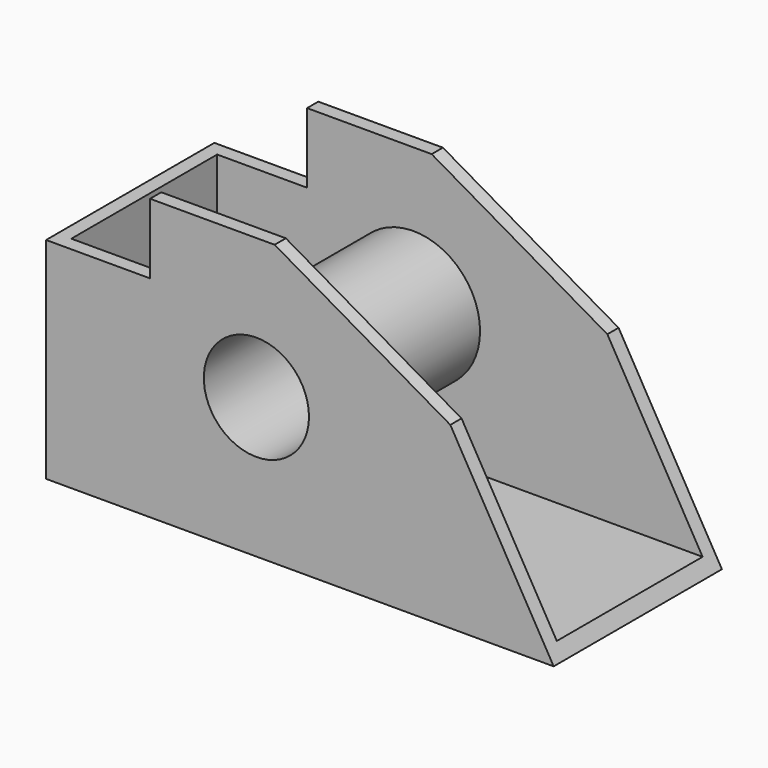
from build123d import *

# Parameters (mm, degrees)
F0_R     = 9.525
F1_DEPTH = 38.1
F2_T     = -2.54


with BuildPart() as f1:
    # F0 (on Front) → F1 (new body)
    with BuildSketch(Plane.XZ):
        Polygon((-91.948, 0), (0, 0), (-18.721091, 32.42588), (-50.546, 50.8), (-73.115923, 50.8), (-73.115923, 38.1), (-91.948, 38.1), align=None)
        with Locations((-53.848, 25.4)):
            Circle(F0_R, mode=Mode.SUBTRACT)
    extrude(amount=F1_DEPTH)

    # F2
    f2_openings = [f1.faces().sort_by_distance(p)[0] for p in [
        (-73.115923, -19.05, 44.45),
        (-82.531961, -19.05, 38.1),
        (-61.830961, -19.05, 50.8),
        (-34.633545, -19.05, 41.61294),
        (-9.360545, -19.05, 16.21294),
    ]]
    offset(amount=F2_T, openings=f2_openings)


solid = f1.part
